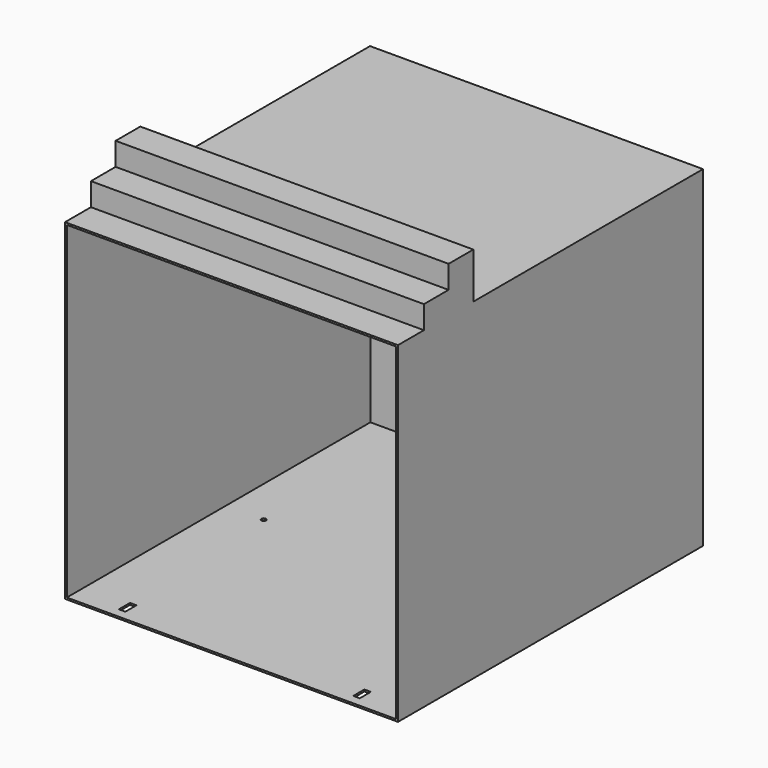
from build123d import *

# Parameters (mm, degrees)
F0_W     = 523.494
F0_H     = 455.422
F1_DEPTH = 228.6
F2_T     = -2.54
F3_W     = 101.6
F3_H     = 114.3
F3_R     = 4.7625
F4_DEPTH = 34.036
F5_W     = 8.89
F5_H     = 19.05
F5_R     = 3.175
F6_DEPTH = 2.54
F8_DEPTH = 457.2


with BuildPart() as f1:
    # F0 (on Right) → F1 (new body, symmetric)
    with BuildSketch(Plane.YZ):
        Rectangle(F0_W, F0_H)
    extrude(amount=F1_DEPTH, both=True)

    # F2
    f2_openings = [f1.faces().sort_by_distance(p)[0] for p in [
        (0, -261.747, 0),
    ]]
    offset(amount=F2_T, openings=f2_openings)

    # F3 (on face) → F4 (join)
    with BuildSketch(Plane(origin=(0, 261.747, 0), x_dir=(-1, 0, 0), z_dir=(0, 1, 0))):
        with Locations((127, -121.539)):
            Rectangle(F3_W, F3_H)
        with Locations((88.9, -159.639)):
            Circle(F3_R, mode=Mode.SUBTRACT)
        with Locations((165.1, -159.639)):
            Circle(F3_R, mode=Mode.SUBTRACT)
        with Locations((88.9, -121.539)):
            Circle(F3_R, mode=Mode.SUBTRACT)
        with Locations((165.1, -121.539)):
            Circle(F3_R, mode=Mode.SUBTRACT)
        with Locations((88.9, -83.439)):
            Circle(F3_R, mode=Mode.SUBTRACT)
        with Locations((165.1, -83.439)):
            Circle(F3_R, mode=Mode.SUBTRACT)
        with Locations((127, 44.069)):
            Rectangle(F3_W, F3_H)
        with Locations((88.9, 5.969)):
            Circle(F3_R, mode=Mode.SUBTRACT)
        with Locations((165.1, 5.969)):
            Circle(F3_R, mode=Mode.SUBTRACT)
        with Locations((88.9, 44.069)):
            Circle(F3_R, mode=Mode.SUBTRACT)
        with Locations((165.1, 44.069)):
            Circle(F3_R, mode=Mode.SUBTRACT)
        with Locations((88.9, 82.169)):
            Circle(F3_R, mode=Mode.SUBTRACT)
        with Locations((165.1, 82.169)):
            Circle(F3_R, mode=Mode.SUBTRACT)
        with Locations((0, -121.539)):
            Rectangle(F3_W, F3_H)
        with Locations((-38.1, -159.639)):
            Circle(F3_R, mode=Mode.SUBTRACT)
        with Locations((-38.1, -121.539)):
            Circle(F3_R, mode=Mode.SUBTRACT)
        with Locations((-38.1, -83.439)):
            Circle(F3_R, mode=Mode.SUBTRACT)
        with Locations((38.1, -159.639)):
            Circle(F3_R, mode=Mode.SUBTRACT)
        with Locations((38.1, -121.539)):
            Circle(F3_R, mode=Mode.SUBTRACT)
        with Locations((38.1, -83.439)):
            Circle(F3_R, mode=Mode.SUBTRACT)
        with Locations((0, 44.069)):
            Rectangle(F3_W, F3_H)
        with Locations((-38.1, 5.969)):
            Circle(F3_R, mode=Mode.SUBTRACT)
        with Locations((-38.1, 44.069)):
            Circle(F3_R, mode=Mode.SUBTRACT)
        with Locations((-38.1, 82.169)):
            Circle(F3_R, mode=Mode.SUBTRACT)
        with Locations((38.1, 5.969)):
            Circle(F3_R, mode=Mode.SUBTRACT)
        with Locations((38.1, 44.069)):
            Circle(F3_R, mode=Mode.SUBTRACT)
        with Locations((38.1, 82.169)):
            Circle(F3_R, mode=Mode.SUBTRACT)
        with Locations((-127, -121.539)):
            Rectangle(F3_W, F3_H)
        with Locations((-165.1, -159.639)):
            Circle(F3_R, mode=Mode.SUBTRACT)
        with Locations((-165.1, -121.539)):
            Circle(F3_R, mode=Mode.SUBTRACT)
        with Locations((-88.9, -159.639)):
            Circle(F3_R, mode=Mode.SUBTRACT)
        with Locations((-88.9, -121.539)):
            Circle(F3_R, mode=Mode.SUBTRACT)
        with Locations((-165.1, -83.439)):
            Circle(F3_R, mode=Mode.SUBTRACT)
        with Locations((-88.9, -83.439)):
            Circle(F3_R, mode=Mode.SUBTRACT)
        with Locations((-127, 44.069)):
            Rectangle(F3_W, F3_H)
        with Locations((-165.1, 5.969)):
            Circle(F3_R, mode=Mode.SUBTRACT)
        with Locations((-88.9, 5.969)):
            Circle(F3_R, mode=Mode.SUBTRACT)
        with Locations((-165.1, 44.069)):
            Circle(F3_R, mode=Mode.SUBTRACT)
        with Locations((-165.1, 82.169)):
            Circle(F3_R, mode=Mode.SUBTRACT)
        with Locations((-88.9, 44.069)):
            Circle(F3_R, mode=Mode.SUBTRACT)
        with Locations((-88.9, 82.169)):
            Circle(F3_R, mode=Mode.SUBTRACT)
    extrude(amount=F4_DEPTH)

    # F5 (on face) → F6 (cut, through all)
    with BuildSketch(Plane(origin=(0, 0, -227.711), x_dir=(1, 0, 0), z_dir=(0, 0, -1))):
        with Locations((160.909, 238.76)):
            Rectangle(F5_W, F5_H)
        with Locations((-160.909, 238.76)):
            Rectangle(F5_W, F5_H)
        with Locations((174.244, -11.303)):
            Circle(F5_R)
        with Locations((-174.244, -11.303)):
            Circle(F5_R)
    extrude(amount=-F6_DEPTH, mode=Mode.SUBTRACT)

    # F7 (on face) → F8 (join, through all)
    with BuildSketch(Plane.YZ.offset(228.6)):
        Polygon((-217.297, 259.207), (-217.297, 227.711), (-132.461, 227.711), (-132.461, 290.703), (-174.879, 290.703), (-174.879, 259.207), align=None)
    extrude(amount=-F8_DEPTH)


solid = f1.part
